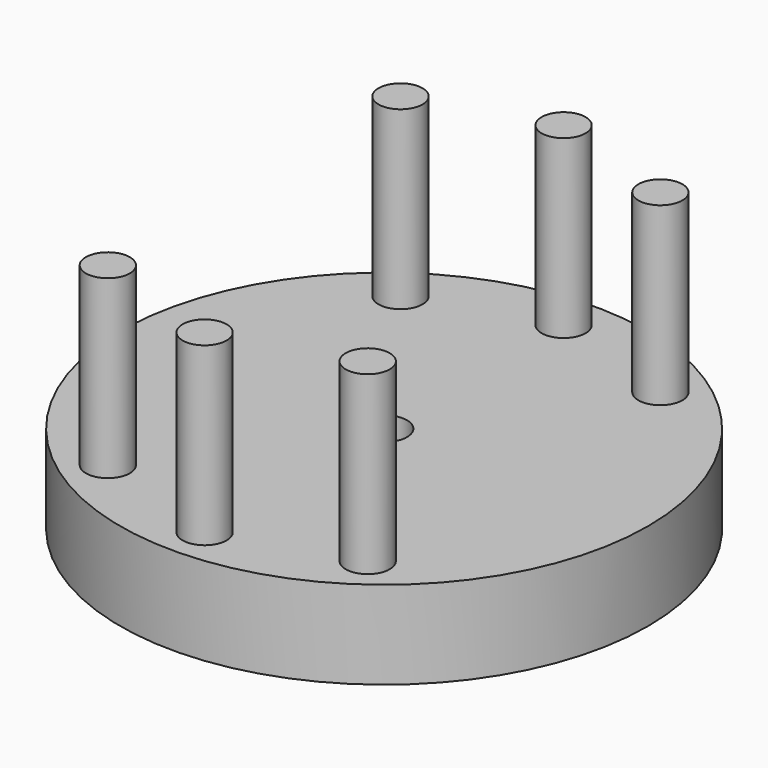
from build123d import *

# Parameters (mm, degrees)
F0_R     = 38.1
F1_DEPTH = 12.7
F2_R     = 3.175
F3_DEPTH = 25.4
F4_R     = 3.175
F5_DEPTH = 25.4
F6_R     = 3.302
F7_DEPTH = 12.7


with BuildPart() as f1:
    # F0 (on Top) → F1 (new body)
    with BuildSketch(Plane.XY):
        Circle(F0_R)
    extrude(amount=F1_DEPTH)

    # F2 (on face) → F3 (join)
    with BuildSketch(Plane.XY.offset(12.7)):
        with Locations((0, 32.385)):
            Circle(F2_R)
        with Locations((-18.753842, 26.402304)):
            Circle(F2_R)
        with Locations((18.753842, 26.402304)):
            Circle(F2_R)
    extrude(amount=F3_DEPTH)

    # F4 (on face) → F5 (join)
    with BuildSketch(Plane.XY.offset(12.7)):
        with Locations((-18.753842, -26.402304)):
            Circle(F4_R)
        with Locations((0, -32.385)):
            Circle(F4_R)
        with Locations((18.753842, -26.402304)):
            Circle(F4_R)
    extrude(amount=F5_DEPTH)

    # F6 (on face) → F7 (cut)
    with BuildSketch(Plane.XY.offset(12.7)):
        Circle(F6_R)
    extrude(amount=-F7_DEPTH, mode=Mode.SUBTRACT)


solid = f1.part
